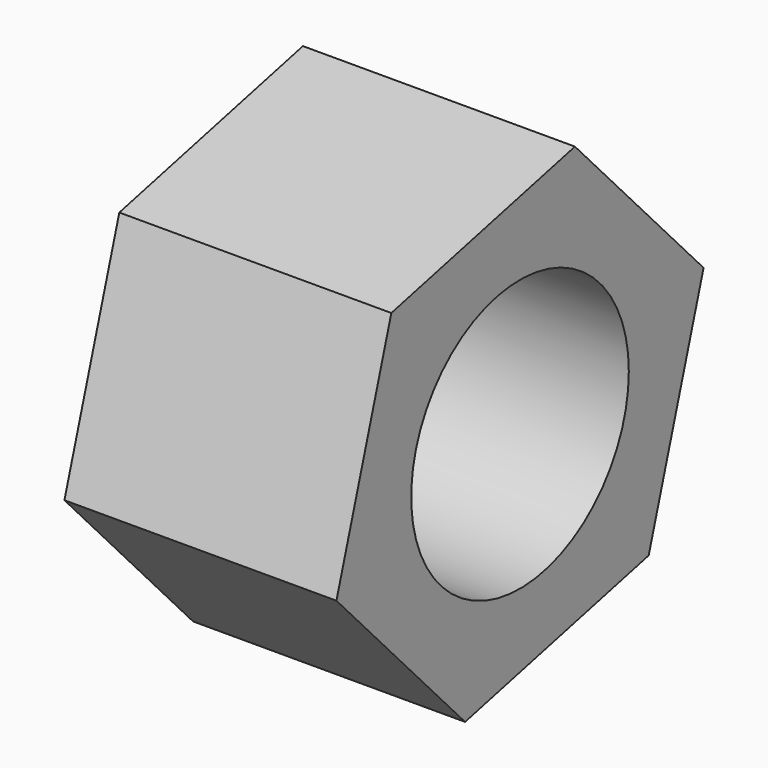
from build123d import *

# Parameters (mm, degrees)
F0_R     = 5
F1_DEPTH = 10


with BuildPart() as f1:
    # F0 (on Right) → F1 (new body)
    with BuildSketch(Plane.YZ):
        Polygon((5.913187, -6.32726), (8.436161, 1.95734), (2.522975, 8.2846), (-5.913187, 6.32726), (-8.436161, -1.95734), (-2.522975, -8.2846), align=None)
        Circle(F0_R, mode=Mode.SUBTRACT)
    extrude(amount=F1_DEPTH)


solid = f1.part
